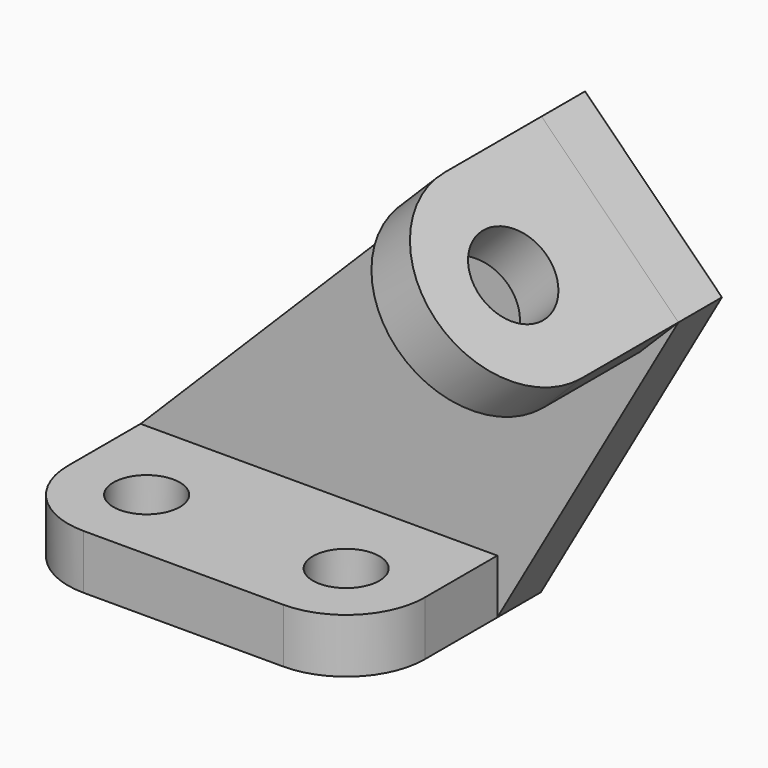
from build123d import *

# Parameters (mm, degrees)
F0_R     = 5.5
F1_DEPTH = 9
F3_DEPTH = 9
F4_R     = 7
F5_DEPTH = 9


with BuildPart() as f1:
    # F0 (on Top) → F1 (new body)
    with BuildSketch(Plane.XY):
        with BuildLine():
            Line((59, 0), (0, 0))
            Line((0, 0), (0, -24))
            ThreePointArc((0, -24), (3.807612, -33.192388), (13, -37))
            Line((13, -37), (46, -37))
            ThreePointArc((46, -37), (55.192388, -33.192388), (59, -24))
            Line((59, -24), (59, 0))
        make_face()
        with Locations((13, -24)):
            Circle(F0_R, mode=Mode.SUBTRACT)
        with Locations((46, -24)):
            Circle(F0_R, mode=Mode.SUBTRACT)
    extrude(amount=F1_DEPTH)

    # F2 (on face) → F3 (join)
    with BuildSketch(Plane(origin=(0, 0, 0), x_dir=(-1, 0, 0), z_dir=(0, 1, 0))):
        Polygon((-88.941485, 52.686292), (-59, 0), (0, 0), (0, 9), (-66.314068, 75.313708), align=None)
    extrude(amount=-F3_DEPTH)

    # F4 (on face) → F5 (join)
    with BuildSketch(Plane(origin=(70.813888, 0, 70.813888), x_dir=(0, 1, 0), z_dir=(0.707107, 0, 0.707107))):
        with BuildLine():
            Line((0, -25.636293), (0, 6.363707))
            Line((0, 6.363707), (-29, 6.363707))
            ThreePointArc((-29, 6.363707), (-45, -9.636293), (-29, -25.636293))
            Line((-29, -25.636293), (0, -25.636293))
        make_face()
        with Locations((-29, -9.636293)):
            Circle(F4_R, mode=Mode.SUBTRACT)
    extrude(amount=-F5_DEPTH)


solid = f1.part
